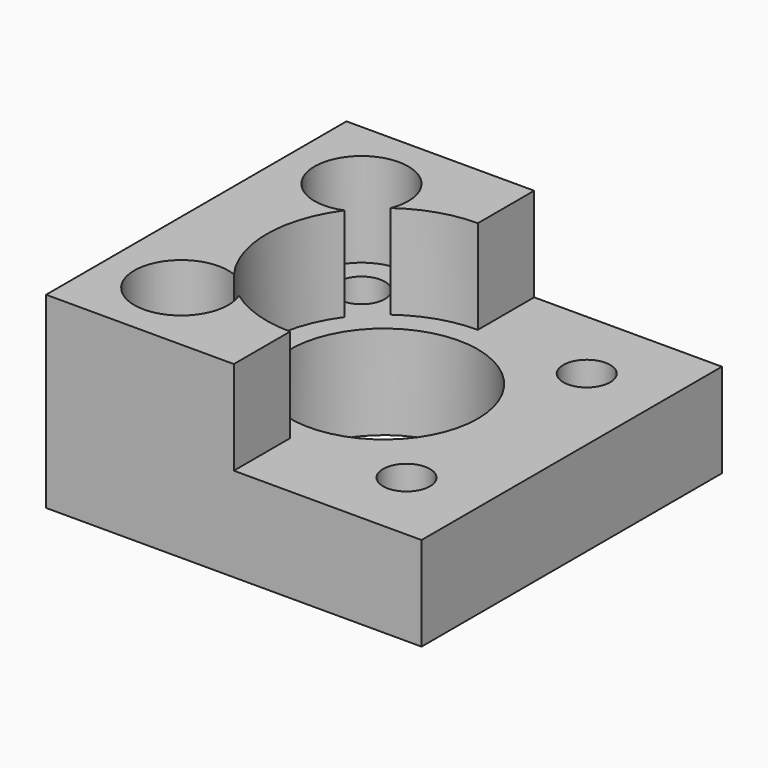
from build123d import *

# Parameters (mm, degrees)
F0_W     = 101.6
F0_H     = 101.6
F0_R     = 6.35
F0_R_2   = 25.4
F1_DEPTH = 25.4
F3_DEPTH = 25.4


with BuildPart() as f1:
    # F0 (on Top) → F1 (new body)
    with BuildSketch(Plane.XY):
        Rectangle(F0_W, F0_H)
        with Locations((-30.48, -30.48)):
            Circle(F0_R, mode=Mode.SUBTRACT)
        Circle(F0_R_2, mode=Mode.SUBTRACT)
        with Locations((30.48, -30.48)):
            Circle(F0_R, mode=Mode.SUBTRACT)
        with Locations((-30.48, 30.48)):
            Circle(F0_R, mode=Mode.SUBTRACT)
        with Locations((30.48, 30.48)):
            Circle(F0_R, mode=Mode.SUBTRACT)
    extrude(amount=F1_DEPTH)

    # F2 (on face) → F3 (join)
    with BuildSketch(Plane.XY.offset(25.4)):
        with BuildLine():
            ThreePointArc((-25.626702, 18.743923), (-41.037625, 37.538793), (-17.78, 30.48))
            ThreePointArc((-17.78, 30.48), (-18.023312, 28.005952), (-18.743923, 25.626702))
            ThreePointArc((-18.743923, 25.626702), (-9.859379, 30.180377), (0, 31.75))
            Line((0, 31.75), (0, 50.8))
            Line((0, 50.8), (-50.8, 50.8))
            Line((-50.8, 50.8), (-50.8, -50.8))
            Line((-50.8, -50.8), (0, -50.8))
            Line((0, -50.8), (0, -31.75))
            ThreePointArc((0, -31.75), (-9.859379, -30.180377), (-18.743923, -25.626702))
            ThreePointArc((-18.743923, -25.626702), (-18.023312, -28.005952), (-17.78, -30.48))
            ThreePointArc((-17.78, -30.48), (-41.037625, -37.538793), (-25.626702, -18.743923))
            ThreePointArc((-25.626702, -18.743923), (-31.75, 0), (-25.626702, 18.743923))
        make_face()
    extrude(amount=F3_DEPTH)


solid = f1.part
